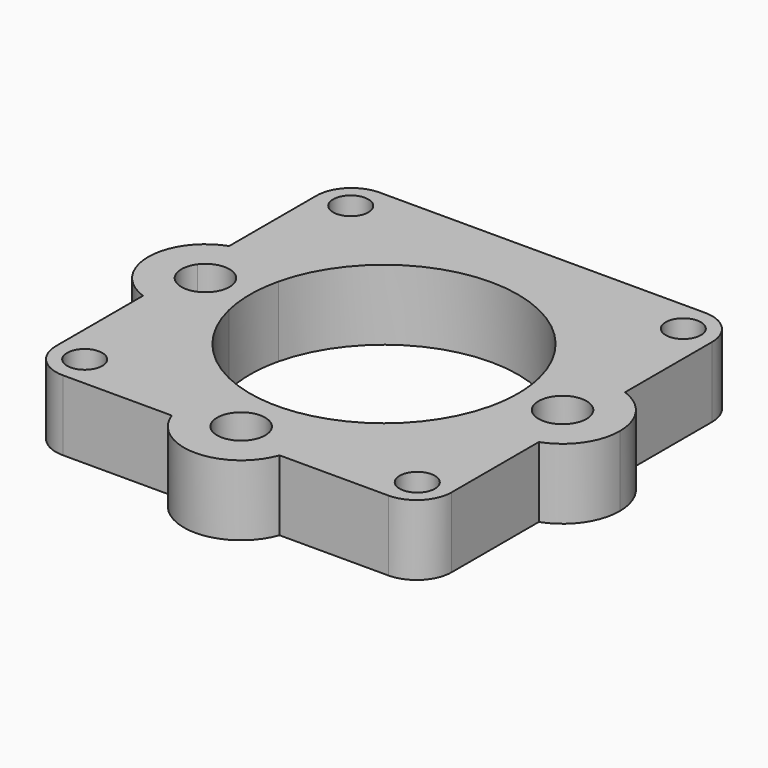
from build123d import *

# Parameters (mm, degrees)
F1_START = 25
F0_R     = 2.5
F1_DEPTH = 10
F2_R     = 5


with BuildPart() as f1:
    # F0 (on Top) → F1 (new body)
    with BuildSketch(Plane.XY.offset(F1_START)):
        with BuildLine():
            Line((28.115, 28.115), (-28.115, 28.115))
            Line((-28.115, 28.115), (-28.115, 7.6560907126))
            ThreePointArc((-28.115, 7.6560907126), (-22.7514332101, 7.7037324483), (-18.5240804258, 4.4022771811))
            ThreePointArc((-18.5240804258, 4.4022771811), (0, 19.04), (18.5240804258, 4.4022771811))
            ThreePointArc((18.5240804258, 4.4022771811), (22.7514332101, 7.7037324483), (28.115, 7.6560907126))
            Line((28.115, 7.6560907126), (28.115, 28.115))
        make_face()
        with Locations((-23.62, 23.62)):
            Circle(F0_R, mode=Mode.SUBTRACT)
        with Locations((23.62, 23.62)):
            Circle(F0_R, mode=Mode.SUBTRACT)
        with BuildLine():
            Line((-28.115, 2.0247777656), (-28.115, 7.6560907126))
            ThreePointArc((-28.115, 7.6560907126), (-33.5, 0), (-28.115, -7.6560907126))
            Line((-28.115, -7.6560907126), (-28.115, -2.0247777656))
            ThreePointArc((-28.115, -2.0247777656), (-28.78, 0), (-28.115, 2.0247777656))
        make_face()
        with BuildLine():
            ThreePointArc((-18.5240804258, 4.4022771811), (-22.7514332101, 7.7037324483), (-28.115, 7.6560907126))
            Line((-28.115, 7.6560907126), (-28.115, 2.0247777656))
            ThreePointArc((-28.115, 2.0247777656), (-24.2994074418, 3.2444934119), (-21.95, 0))
            ThreePointArc((-21.95, 0), (-24.2994074418, -3.2444934119), (-28.115, -2.0247777656))
            Line((-28.115, -2.0247777656), (-28.115, -7.6560907126))
            ThreePointArc((-28.115, -7.6560907126), (-22.7514332101, -7.7037324483), (-18.5240804258, -4.4022771811))
            ThreePointArc((-18.5240804258, -4.4022771811), (-19.04, 0), (-18.5240804258, 4.4022771811))
        make_face()
        with BuildLine():
            ThreePointArc((-18.5240804258, -4.4022771811), (-22.7514332101, -7.7037324483), (-28.115, -7.6560907126))
            Line((-28.115, -7.6560907126), (-28.115, -28.115))
            Line((-28.115, -28.115), (-7.6560907126, -28.115))
            ThreePointArc((-7.6560907126, -28.115), (-7.7037324483, -22.7514332101), (-4.4022771811, -18.5240804258))
            ThreePointArc((-4.4022771811, -18.5240804258), (-13.4633131138, -13.4633131138), (-18.5240804258, -4.4022771811))
        make_face()
        with Locations((-23.62, -23.62)):
            Circle(F0_R, mode=Mode.SUBTRACT)
        with BuildLine():
            Line((28.115, 2.0247777656), (28.115, 7.6560907126))
            ThreePointArc((28.115, 7.6560907126), (22.7514332101, 7.7037324483), (18.5240804258, 4.4022771811))
            ThreePointArc((18.5240804258, 4.4022771811), (18.9105802569, 2.2162026862), (19.04, 0))
            ThreePointArc((19.04, 0), (18.9105802569, -2.2162026862), (18.5240804258, -4.4022771811))
            ThreePointArc((18.5240804258, -4.4022771811), (22.7514332101, -7.7037324483), (28.115, -7.6560907126))
            Line((28.115, -7.6560907126), (28.115, -2.0247777656))
            ThreePointArc((28.115, -2.0247777656), (21.95, 0), (28.115, 2.0247777656))
        make_face()
        with BuildLine():
            ThreePointArc((33.5, 0), (32.0189264724, 4.6801161845), (28.115, 7.6560907126))
            Line((28.115, 7.6560907126), (28.115, 2.0247777656))
            ThreePointArc((28.115, 2.0247777656), (28.6094934119, 1.0655925582), (28.78, 0))
            ThreePointArc((28.78, 0), (28.6094934119, -1.0655925582), (28.115, -2.0247777656))
            Line((28.115, -2.0247777656), (28.115, -7.6560907126))
            ThreePointArc((28.115, -7.6560907126), (32.0189264724, -4.6801161845), (33.5, 0))
        make_face()
        with BuildLine():
            Line((28.115, -28.115), (28.115, -7.6560907126))
            ThreePointArc((28.115, -7.6560907126), (22.7514332101, -7.7037324483), (18.5240804258, -4.4022771811))
            ThreePointArc((18.5240804258, -4.4022771811), (13.4633131138, -13.4633131138), (4.4022771811, -18.5240804258))
            ThreePointArc((4.4022771811, -18.5240804258), (7.1411046018, -21.4684823155), (8.135, -25.365))
            ThreePointArc((8.135, -25.365), (8.0143784209, -26.7606946394), (7.6560907126, -28.115))
            Line((7.6560907126, -28.115), (28.115, -28.115))
        make_face()
        with Locations((23.62, -23.62)):
            Circle(F0_R, mode=Mode.SUBTRACT)
        with BuildLine():
            ThreePointArc((4.4022771811, -18.5240804258), (0, -19.04), (-4.4022771811, -18.5240804258))
            ThreePointArc((-4.4022771811, -18.5240804258), (-7.7037324483, -22.7514332101), (-7.6560907126, -28.115))
            Line((-7.6560907126, -28.115), (-2.0247777656, -28.115))
            ThreePointArc((-2.0247777656, -28.115), (-1.5407155692, -22.3173089831), (3.415, -25.365))
            ThreePointArc((3.415, -25.365), (3.0476910169, -26.9057155692), (2.0247777656, -28.115))
            Line((2.0247777656, -28.115), (7.6560907126, -28.115))
            ThreePointArc((7.6560907126, -28.115), (8.0143784209, -26.7606946394), (8.135, -25.365))
            ThreePointArc((8.135, -25.365), (7.1411046018, -21.4684823155), (4.4022771811, -18.5240804258))
        make_face()
        with BuildLine():
            Line((-2.0247777656, -28.115), (-7.6560907126, -28.115))
            ThreePointArc((-7.6560907126, -28.115), (0, -33.5), (7.6560907126, -28.115))
            Line((7.6560907126, -28.115), (2.0247777656, -28.115))
            ThreePointArc((2.0247777656, -28.115), (0, -28.78), (-2.0247777656, -28.115))
        make_face()
    extrude(amount=F1_DEPTH)

    # F2
    f2_edges = [f1.edges().sort_by_distance(p)[0] for p in [
        (-28.115, -28.115, 30),
        (28.115, -28.115, 30),
        (28.115, 28.115, 30),
        (-28.115, 28.115, 30),
    ]]
    fillet(f2_edges, radius=F2_R)


solid = f1.part
